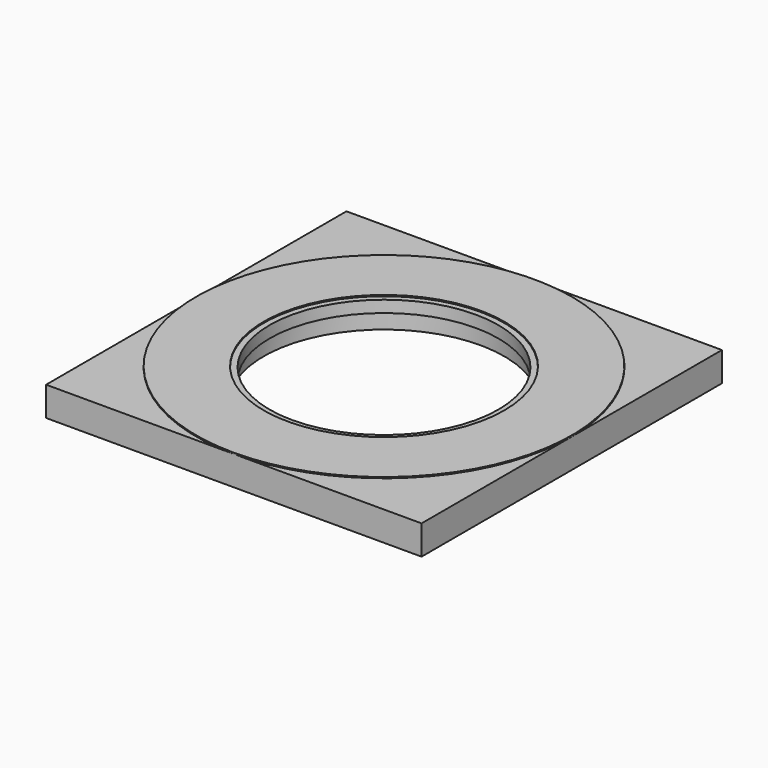
from build123d import *

# Parameters (mm, degrees)
F0_R     = 102.5
F1_DEPTH = 25
F2_DEPTH = 1
F3_DEPTH = 25
F4_R     = 102.5
F4_R_2   = 97.5
F5_DEPTH = 10


with BuildPart() as f1:
    # F0 (on Top) → F1 (new body)
    with BuildSketch(Plane.XY):
        with BuildLine():
            Line((160, 160), (2.52e-08, 160))
            ThreePointArc((2.52e-08, 160), (113.1370849988, 113.1370849809), (160, 0))
            Line((160, 0), (160, 160))
        make_face()
        with BuildLine():
            ThreePointArc((160, 0), (113.1370849988, 113.1370849809), (2.52e-08, 160))
            ThreePointArc((2.52e-08, 160), (-113.13708472, 113.1370852597), (-160, 7.381e-07))
            ThreePointArc((-160, 7.381e-07), (-113.1370852131, -113.1370847666), (1.067e-07, -160))
            ThreePointArc((1.067e-07, -160), (113.1370850276, -113.1370849521), (160, 0))
        make_face()
        Circle(F0_R, mode=Mode.SUBTRACT)
        with BuildLine():
            Line((160, -160), (160, 0))
            ThreePointArc((160, 0), (113.1370850276, -113.1370849521), (1.067e-07, -160))
            Line((1.067e-07, -160), (160, -160))
        make_face()
        Circle(F0_R)
        with BuildLine():
            Line((2.52e-08, 160), (-160, 160))
            Line((-160, 160), (-160, 7.381e-07))
            ThreePointArc((-160, 7.381e-07), (-113.13708472, 113.1370852597), (2.52e-08, 160))
        make_face()
        with BuildLine():
            ThreePointArc((1.067e-07, -160), (-113.1370852131, -113.1370847666), (-160, 7.381e-07))
            Line((-160, 7.381e-07), (-160, -160))
            Line((-160, -160), (1.067e-07, -160))
        make_face()
    extrude(amount=-F1_DEPTH)

    # F0 (on Top) → F2 (join)
    with BuildSketch(Plane.XY):
        with BuildLine():
            ThreePointArc((160, 0), (113.1370849988, 113.1370849809), (2.52e-08, 160))
            ThreePointArc((2.52e-08, 160), (-113.13708472, 113.1370852597), (-160, 7.381e-07))
            ThreePointArc((-160, 7.381e-07), (-113.1370852131, -113.1370847666), (1.067e-07, -160))
            ThreePointArc((1.067e-07, -160), (113.1370850276, -113.1370849521), (160, 0))
        make_face()
        Circle(F0_R, mode=Mode.SUBTRACT)
    extrude(amount=F2_DEPTH)

    # F3 (cut): a face of the model
    f3_faces = [f1.faces().sort_by_distance(p)[0] for p in [
        (0, 0, 0),
    ]]
    extrude(f3_faces, amount=-F3_DEPTH, mode=Mode.SUBTRACT)

    # F4 (on Top) → F5 (join)
    with BuildSketch(Plane.XY):
        Circle(F4_R)
        Circle(F4_R_2, mode=Mode.SUBTRACT)
    extrude(amount=-F5_DEPTH)


solid = f1.part
